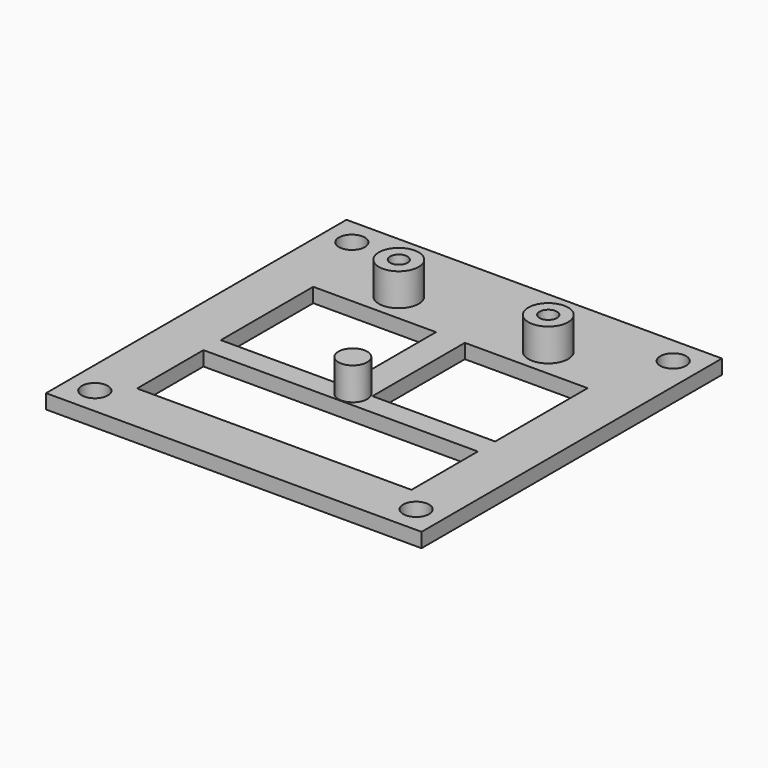
from build123d import *

# Parameters (mm, degrees)
SKETCH_W      = 52
SKETCH_H      = 52
SKETCH_R      = 1.8
SKETCH_R_2    = 1.2
SKETCH_W_2    = 38
SKETCH_H_2    = 11.5
PAD_DEPTH     = 2
SKETCH001_R   = 2
SKETCH001_R_2 = 2.75
SKETCH001_R_3 = 1.2
PAD001_DEPTH  = 4.5
SKETCH002_W   = 17
SKETCH002_H   = 16
POCKET_DEPTH  = 5


with BuildPart() as part:
    # Sketch → Pad (new body)
    with BuildSketch(Plane.XY):
        Rectangle(SKETCH_W, SKETCH_H)
        with Locations((22.25, 22.25)):
            Circle(SKETCH_R, mode=Mode.SUBTRACT)
        with Locations((22.25, -22.25)):
            Circle(SKETCH_R, mode=Mode.SUBTRACT)
        with Locations((-22.25, 22.25)):
            Circle(SKETCH_R, mode=Mode.SUBTRACT)
        with Locations((-22.25, -22.25)):
            Circle(SKETCH_R, mode=Mode.SUBTRACT)
        with Locations((-10.35, 15.5)):
            Circle(SKETCH_R_2, mode=Mode.SUBTRACT)
        with Locations((10.35, 15.5)):
            Circle(SKETCH_R_2, mode=Mode.SUBTRACT)
        with Locations((0, -13.25)):
            Rectangle(SKETCH_W_2, SKETCH_H_2, mode=Mode.SUBTRACT)
    extrude(amount=PAD_DEPTH)

    # Sketch001 → Pad001 (new body)
    with BuildSketch(Plane.XY.offset(2)):
        with Locations((0, -5.4)):
            Circle(SKETCH001_R)
        with Locations((-10.35, 15.5)):
            Circle(SKETCH001_R_2)
        with Locations((-10.35, 15.5)):
            Circle(SKETCH001_R_3, mode=Mode.SUBTRACT)
        with Locations((10.35, 15.5)):
            Circle(SKETCH001_R_2)
        with Locations((10.35, 15.5)):
            Circle(SKETCH001_R_3, mode=Mode.SUBTRACT)
    extrude(amount=PAD001_DEPTH)

    # Sketch002 → Pocket (cut)
    with BuildSketch(Plane.XY.offset(2)):
        with Locations((-10.5, 3.5)):
            Rectangle(SKETCH002_W, SKETCH002_H)
        with Locations((10.5, 3.5)):
            Rectangle(SKETCH002_W, SKETCH002_H)
    extrude(amount=-POCKET_DEPTH, mode=Mode.SUBTRACT)


solid = part.part
